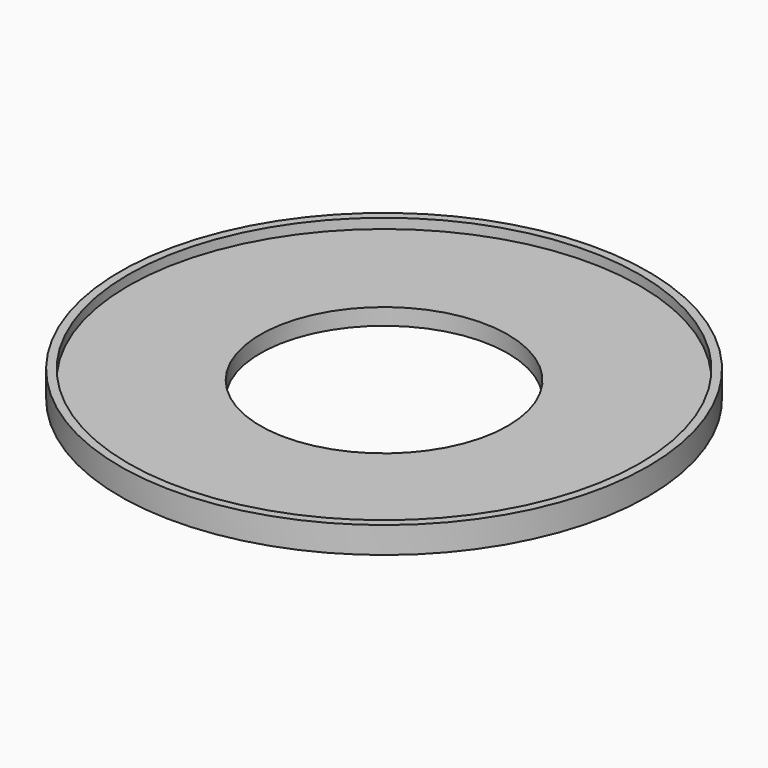
from build123d import *

# Parameters (mm, degrees)
F0_R     = 80
F1_DEPTH = 5
F2_R     = 37.5
F3_DEPTH = 5.001
F4_R     = 80
F4_R_2   = 77.5
F5_DEPTH = 3


with BuildPart() as f1:
    # F0 (on Top) → F1 (new body)
    with BuildSketch(Plane.XY):
        Circle(F0_R)
    extrude(amount=F1_DEPTH)

    # F2 (on face) → F3 (cut, through all)
    with BuildSketch(Plane.XY.offset(5)):
        Circle(F2_R)
    extrude(amount=-F3_DEPTH, mode=Mode.SUBTRACT)

    # F4 (on face) → F5 (join)
    with BuildSketch(Plane.XY.offset(5)):
        Circle(F4_R)
        Circle(F4_R_2, mode=Mode.SUBTRACT)
    extrude(amount=F5_DEPTH)


solid = f1.part
